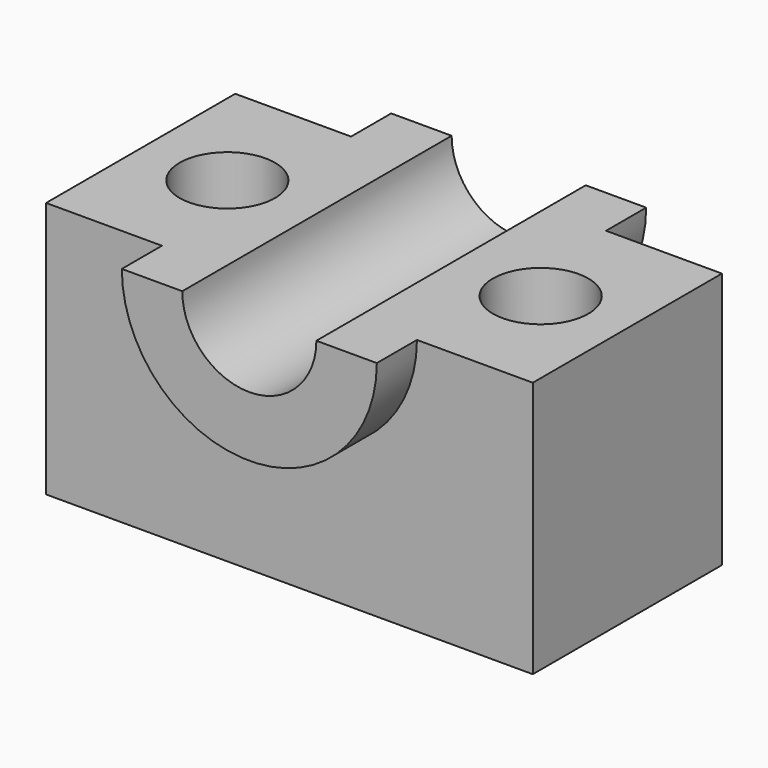
from build123d import *

# Parameters (mm, degrees)
F1_DEPTH      = 83.82
F2_DEPTH      = 101.6
F2_DEPTH_BACK = 17.78
F4_DEPTH      = 176.022


with BuildPart() as f1:
    # F0 (on Front) → F1 (new body)
    with BuildSketch(Plane.XZ):
        with BuildLine():
            Line((-86.2852931023, -45.4958863556), (86.2852931023, -45.4958863556))
            Line((86.2852931023, -45.4958863556), (86.2852931023, 45.4958863556))
            Line((86.2852931023, 45.4958863556), (45.2049326768, 45.4958863556))
            ThreePointArc((45.2049326768, 45.4958863556), (0, 0.2909536789), (-45.2049326768, 45.4958863556))
            Line((-45.2049326768, 45.4958863556), (-86.2852931023, 45.4958863556))
            Line((-86.2852931023, 45.4958863556), (-86.2852931023, -45.4958863556))
        make_face()
    extrude(amount=-F1_DEPTH)

    # F0 (on Front) → F2 (join, two sides)
    with BuildSketch(Plane.XZ) as f2_sk:
        with BuildLine():
            ThreePointArc((-45.2049326768, 45.4958863556), (0, 0.2909536789), (45.2049326768, 45.4958863556))
            Line((45.2049326768, 45.4958863556), (23.7693889097, 45.4958863556))
            ThreePointArc((23.7693889097, 45.4958863556), (0, 21.726497446), (-23.7693889097, 45.4958863556))
            Line((-23.7693889097, 45.4958863556), (-45.2049326768, 45.4958863556))
        make_face()
    extrude(amount=-F2_DEPTH)
    extrude(f2_sk.sketch, amount=F2_DEPTH_BACK)

    # F3 (on face) → F4 (cut, symmetric)
    with BuildSketch(Plane.XY.offset(45.4958863556)):
        with BuildLine():
            ThreePointArc((-38.6172999535, 41.91), (-55.5423423648, 58.8350424113), (-72.4673847761, 41.91))
            Line((-72.4673847761, 41.91), (-38.6172999535, 41.91))
        make_face()
        with BuildLine():
            ThreePointArc((72.4673847761, 41.91), (55.5423423648, 58.8350424113), (38.6172999535, 41.91))
            Line((38.6172999535, 41.91), (72.4673847761, 41.91))
        make_face()
        with BuildLine():
            Line((72.4673847761, 41.91), (38.6172999535, 41.91))
            ThreePointArc((38.6172999535, 41.91), (55.5423423648, 24.9849575887), (72.4673847761, 41.91))
        make_face()
        with BuildLine():
            Line((-38.6172999535, 41.91), (-72.4673847761, 41.91))
            ThreePointArc((-72.4673847761, 41.91), (-55.5423423648, 24.9849575887), (-38.6172999535, 41.91))
        make_face()
    extrude(amount=F4_DEPTH, both=True, mode=Mode.SUBTRACT)


solid = f1.part
